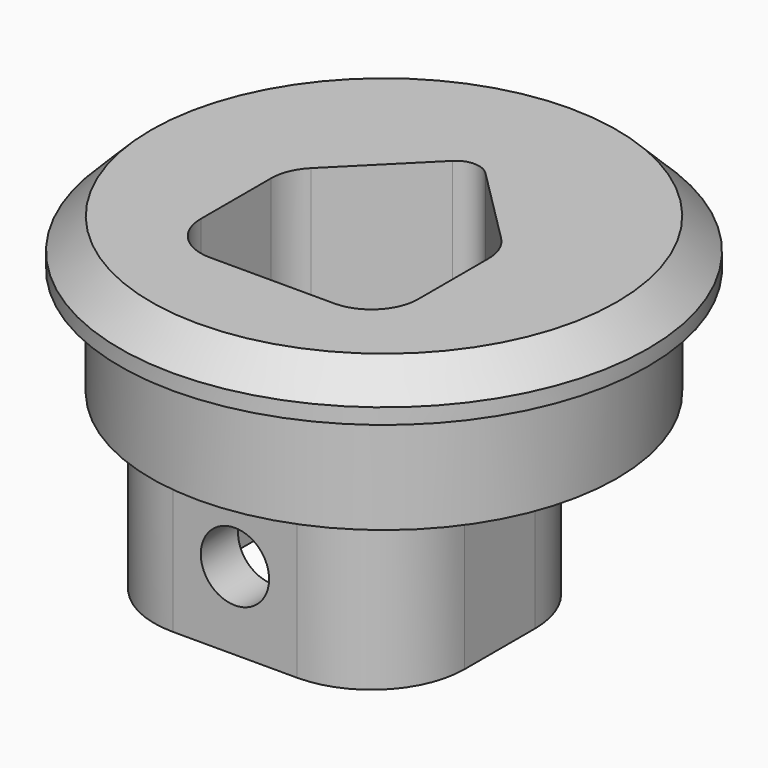
from build123d import *

# Parameters (mm, degrees)
F3_DEPTH = 10.001
F5_DEPTH = 10
F6_R     = 2.2
F7_DEPTH = 3


with BuildPart() as f1:
    # F0 (on Right) → F1 (revolve)
    with BuildSketch(Plane.YZ):
        Polygon((-15, 0), (0, 0), (0, 10), (-15, 10), (-17, 8), (-17, 7), (-15, 7), align=None)
    revolve(axis=Axis((0, 0, -2.15537), (0, 0, -1)))

    # F2 (on face) → F3 (cut, through all)
    with BuildSketch(Plane.XY.offset(10)):
        with BuildLine():
            Line((-7, -0.343146), (-7, -6))
            ThreePointArc((-7, -6), (-6.12132, -8.12132), (-4, -9))
            Line((-4, -9), (4, -9))
            ThreePointArc((4, -9), (6.12132, -8.12132), (7, -6))
            Line((7, -6), (7, -0.343146))
            ThreePointArc((7, -0.343146), (6.771639, 0.804905), (6.12132, 1.778175))
            Line((6.12132, 1.778175), (1.06066, 6.838835))
            ThreePointArc((1.06066, 6.838835), (0, 7.278175), (-1.06066, 6.838835))
            Line((-1.06066, 6.838835), (-6.12132, 1.778175))
            ThreePointArc((-6.12132, 1.778175), (-6.771639, 0.804905), (-7, -0.343146))
        make_face()
    extrude(amount=-F3_DEPTH, mode=Mode.SUBTRACT)

    # F4 (on face) → F5 (join)
    with BuildSketch(Plane(origin=(0, 0, 0), x_dir=(1, 0, 0), z_dir=(0, 0, -1))):
        with BuildLine():
            Line((4, 12), (-4, 12))
            ThreePointArc((-4, 12), (-8.242641, 10.242641), (-10, 6))
            Line((-10, 6), (-10, 0.343146))
            ThreePointArc((-10, 0.343146), (-9.543277, -1.952955), (-8.242641, -3.899495))
            Line((-8.242641, -3.899495), (-3.181981, -8.960155))
            ThreePointArc((-3.181981, -8.960155), (0, -10.278175), (3.181981, -8.960155))
            Line((3.181981, -8.960155), (8.242641, -3.899495))
            ThreePointArc((8.242641, -3.899495), (9.543277, -1.952955), (10, 0.343146))
            Line((10, 0.343146), (10, 6))
            ThreePointArc((10, 6), (8.242641, 10.242641), (4, 12))
        make_face()
        with BuildLine():
            ThreePointArc((-7, 6), (-6.12132, 8.12132), (-4, 9))
            Line((-4, 9), (4, 9))
            ThreePointArc((4, 9), (6.12132, 8.12132), (7, 6))
            Line((7, 6), (7, 0.343146))
            ThreePointArc((7, 0.343146), (6.771639, -0.804905), (6.12132, -1.778175))
            Line((6.12132, -1.778175), (1.06066, -6.838835))
            ThreePointArc((1.06066, -6.838835), (0, -7.278175), (-1.06066, -6.838835))
            Line((-1.06066, -6.838835), (-6.12132, -1.778175))
            ThreePointArc((-6.12132, -1.778175), (-6.771639, -0.804905), (-7, 0.343146))
            Line((-7, 0.343146), (-7, 6))
        make_face(mode=Mode.SUBTRACT)
    extrude(amount=F5_DEPTH)

    # F6 (on face) → F7 (cut, through all)
    with BuildSketch(Plane.XZ.offset(12)):
        with Locations((0, -5)):
            Circle(F6_R)
    extrude(amount=-F7_DEPTH, mode=Mode.SUBTRACT)


solid = f1.part
